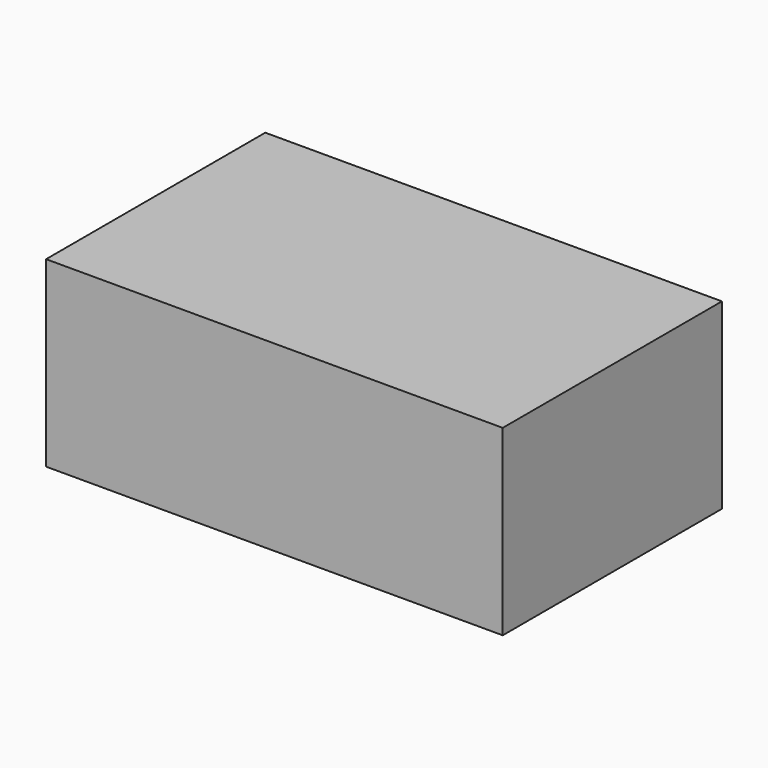
from build123d import *

# Parameters (mm, degrees)
SKETCH_W  = 500
SKETCH_H  = 300
PAD_DEPTH = 200


with BuildPart() as part:
    # Sketch → Pad (new body)
    with BuildSketch(Plane.XY):
        Rectangle(SKETCH_W, SKETCH_H)
    extrude(amount=PAD_DEPTH)


solid = part.part
